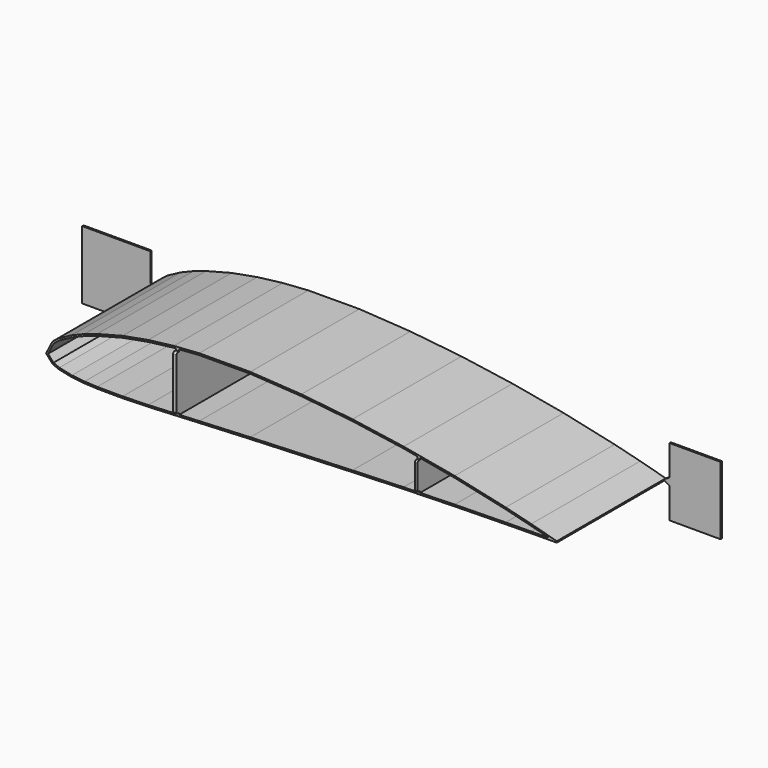
from build123d import *

# Parameters (mm, degrees)
F1_DEPTH  = 40
F3_DEPTH  = 39.5
F4_R      = 4.5
F4_R_2    = 7
F4_R_3    = 7.5
F4_R_4    = 5.75
F5_DEPTH  = 0.501
F7_DEPTH  = 2
F8_W      = 1.75
F8_H      = 8.804983391
F8_W_2    = 2
F8_H_2    = 16.691370044
F9_DEPTH  = 1.25
F10_R     = 0.5
F11_W     = 0.75
F11_H     = 8.010983391
F11_W_2   = 1
F11_H_2   = 15.8301910942
F12_DEPTH = 1
F13_R     = 0.5
F15_DEPTH = 0.5
F17_DEPTH = 0.5


with BuildPart() as f1:
    # F0 (on Front) → F1 (new body)
    with BuildSketch(Plane.XZ):
        Polygon((150, -0.195), (150, 0.195), (142.5, 2.205), (135, 4.065), (120, 7.335), (105, 10.035), (90, 12.21), (75, 13.785), (60, 14.7), (45, 14.64), (37.5, 14.115), (30, 13.2), (22.5, 11.835), (15, 9.885), (11.25, 8.64), (7.5, 7.095), (3.75, 5.085), (1.875, 3.66), (0, 0), (1.875, -2.145), (3.75, -2.925), (7.5, -3.735), (11.25, -4.11), (15, -4.29), (22.5, -4.32), (30, -4.11), (37.5, -3.75), (45, -3.39), (60, -2.7), (75, -2.1), (90, -1.5), (105, -0.975), (120, -0.585), (135, -0.33), (142.5, -0.24), align=None)
    extrude(amount=F1_DEPTH)

    # F2 (on face) → F3 (cut)
    with BuildSketch(Plane.XZ.offset(40)):
        Polygon((22.494001199, -3.8199719571), (29.9810146479, -3.6103355805), (38.0995951893, -3.2206437145), (38.0995951893, 13.6557481124), (37.5477644894, 13.6171199634), (30.0751046996, 12.705455469), (22.6078220145, 11.3464100203), (15.1418358981, 9.4052536301), (11.4242210448, 8.1710054988), (7.7138856453, 6.6423473142), (4.0210598526, 4.6629926893), (2.2681271547, 3.3307638389), (0.5995951893, 0.0737894424), (2.1747084318, -1.728140107), (3.9000375829, -2.4458770339), (7.577907371, -3.2402969081), (11.2868867814, -3.6111948491), (15.0129924699, -3.7900479222), align=None)
        Polygon((89.9812632263, -1.0003495831), (104.9847572408, -0.4752272926), (109.0995951893, -0.3682415059), (109.0995951893, 8.7890373856), (104.9198136118, 9.5413980696), (89.9379946481, 11.7137618193), (74.958652077, 13.2865927893), (59.985763287, 14.1999390054), (45.0184773208, 14.1400698616), (39.0995951893, 13.7257481124), (39.0995951893, -3.1726437145), (44.9765259223, -2.8905510394), (59.9785199435, -2.2004593144), align=None)
        Polygon((109.8495951893, -0.3487415059), (119.9892525914, -0.0851104134), (134.992750784, 0.1699490558), (142.4955002021, 0.2599820488), (147.7092928365, 0.2912648047), (142.3750957537, 1.7208296229), (134.8865506068, 3.5779888193), (119.9024297861, 6.8445271582), (109.8495951893, 8.6540373856), align=None)
    extrude(amount=-F3_DEPTH, mode=Mode.SUBTRACT)

    # F4 (on face) → F5 (cut, through all)
    with BuildSketch(Plane.XZ.offset(0.5)):
        with Locations((11, 2)):
            Circle(F4_R)
        with Locations((30, 4.5)):
            Circle(F4_R_2)
        with Locations((48.5, 5.75)):
            Circle(F4_R_3)
        with Locations((69.25, 6)):
            Circle(F4_R_2)
        with Locations((88, 5.5)):
            Circle(F4_R_4)
        with Locations((103.5, 4.5)):
            Circle(F4_R)
    extrude(amount=-F5_DEPTH, mode=Mode.SUBTRACT)

    # F6 (on face) → F7 (join)
    with BuildSketch(Plane(origin=(0, 0, 0), x_dir=(-1, 0, 0), z_dir=(0, 1, 0))):
        Polygon((-110.8495951893, -0.8229105251), (-108.0995951893, -0.8944105251), (-108.0995951893, 9.4770728659), (-110.8495951893, 8.9820728659), align=None)
        Polygon((-37.0995951893, -3.7692194309), (-37.0995951893, 14.0661506131), (-37.5, 14.115), (-40.0995951893, 14.2969716633), (-40.0995951893, -3.6252194309), align=None)
    extrude(amount=-F7_DEPTH)

    # F8 (on face) → F9 (cut)
    with BuildSketch(Plane(origin=(0, 0, 0), x_dir=(-1, 0, 0), z_dir=(0, 1, 0))):
        with Locations((-109.4745951893, 4.0795811704)):
            Rectangle(F8_W, F8_H)
        with Locations((-38.5995951893, 5.2204655911)):
            Rectangle(F8_W_2, F8_H_2)
    extrude(amount=-F9_DEPTH, mode=Mode.SUBTRACT)

    # F10
    f10_edges = [f1.edges().sort_by_distance(p)[0] for p in [
        (37.599595, -1.25, 5.220466),
        (38.599595, -1.25, 13.566151),
        (39.599595, -1.25, 5.220466),
        (38.599595, -1.25, -3.125219),
        (108.599595, -1.25, 4.079581),
        (109.474595, -1.25, 8.482073),
        (110.349595, -1.25, 4.079581),
        (109.474595, -1.25, -0.322911),
    ]]
    fillet(f10_edges, radius=F10_R)

    # F11 (on face) → F12 (join)
    with BuildSketch(Plane.XZ.offset(40)):
        with Locations((109.4745951893, 4.1565811704)):
            Rectangle(F11_W, F11_H)
        with Locations((38.5995951893, 5.2418761162)):
            Rectangle(F11_W_2, F11_H_2)
    extrude(amount=F12_DEPTH)

    # F13
    f13_edges = [f1.edges().sort_by_distance(p)[0] for p in [
        (38.599595, -41, 13.156972),
        (38.599595, -41, -2.673219),
        (109.474595, -41, 0.151089),
        (109.474595, -41, 8.162073),
    ]]
    fillet(f13_edges, radius=F13_R)

    # F14 (on face) → F15 (join)
    with BuildSketch(Plane(origin=(0, 0, 0), x_dir=(-1, 0, 0), z_dir=(0, 1, 0))):
        Polygon((21, 10), (1, 10), (1, 1.8028106709), (-0.484496124, 0.9457364341), (0, 0), (-0.484496124, -0.5542635659), (1, -1.4113378027), (1, -10), (21, -10), align=None)
    extrude(amount=-F15_DEPTH)

    # F16 (on face) → F17 (join)
    with BuildSketch(Plane(origin=(0, 0, 0), x_dir=(-1, 0, 0), z_dir=(0, 1, 0))):
        Polygon((-151.5, 1.0610254038), (-151.5, 10), (-166.5, 10), (-166.5, -10), (-151.5, -10), (-151.5, -1.0610254038), (-150, -0.195), (-150, 0.195), align=None)
    extrude(amount=-F17_DEPTH)


solid = f1.part
